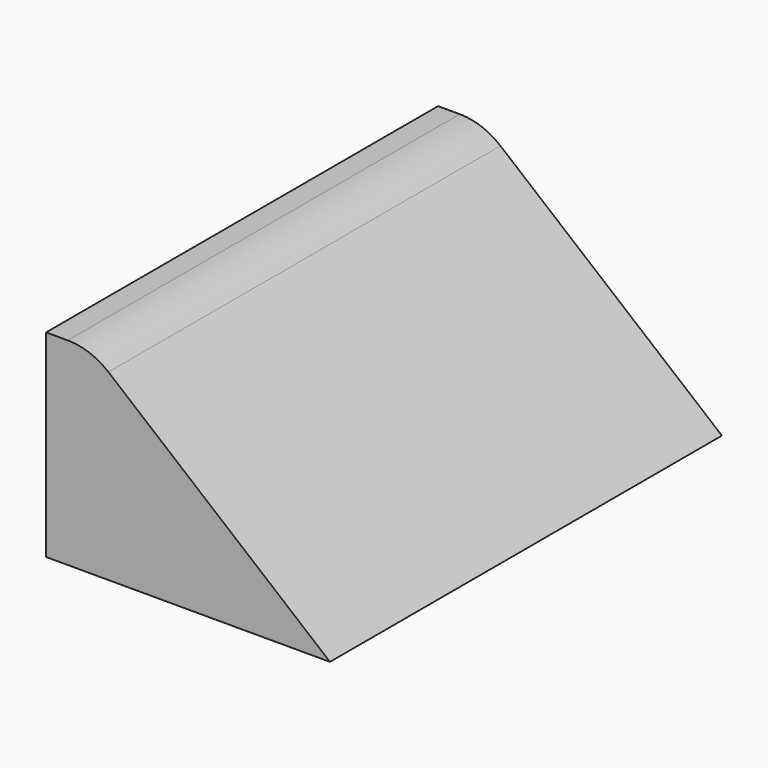
from build123d import *

# Parameters (mm, degrees)
F1_DEPTH = 48.768


with BuildPart() as f1:
    # F0 (on Front) → F1 (new body, symmetric)
    with BuildSketch(Plane.XZ):
        with BuildLine():
            Line((-50.60963, 20.377397), (-54.929927, 20.377397))
            Line((-54.929927, 20.377397), (-54.929927, -18.992603))
            Line((-54.929927, -18.992603), (1.585073, -18.992603))
            Line((1.585073, -18.992603), (-42.517863, 17.465825))
            ThreePointArc((-42.517863, 17.465825), (-46.309806, 19.627356), (-50.60963, 20.377397))
        make_face()
    extrude(amount=F1_DEPTH, both=True)


solid = f1.part
